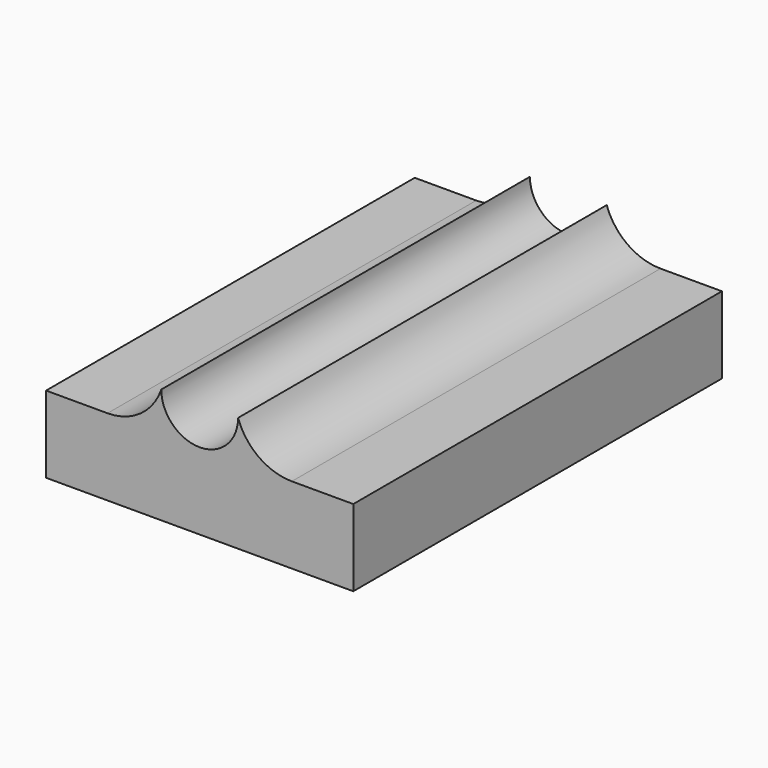
from build123d import *

# Parameters (mm, degrees)
F1_DEPTH = 38.1


with BuildPart() as f1:
    # F0 (on Front) → F1 (new body)
    with BuildSketch(Plane.XZ):
        with BuildLine():
            Line((0, 6.35), (0, 0))
            Line((0, 0), (25.4, 0))
            Line((25.4, 0), (25.4, 6.35))
            Line((25.4, 6.35), (20.32, 6.35))
            ThreePointArc((20.32, 6.35), (17.588761, 7.225266), (15.875, 9.525))
            ThreePointArc((15.875, 9.525), (12.7, 6.35), (9.525, 9.525))
            ThreePointArc((9.525, 9.525), (7.811238, 7.225266), (5.08, 6.35))
            Line((5.08, 6.35), (0, 6.35))
        make_face()
    extrude(amount=F1_DEPTH)


solid = f1.part
